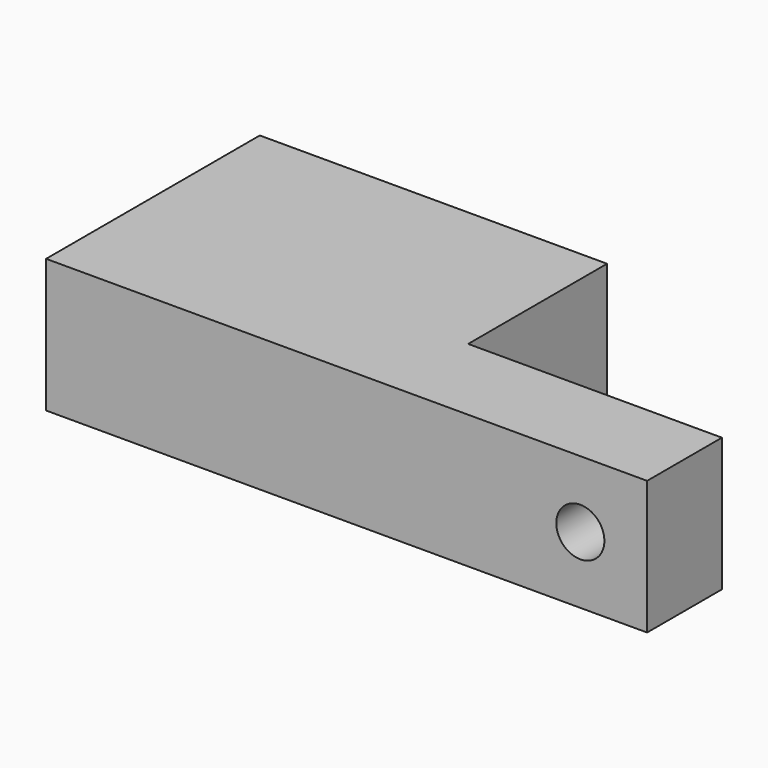
from build123d import *

# Parameters (mm, degrees)
CYLINDER040_R          = 4.2
CYLINDER040_DEPTH      = 200
CYLINDER037_R          = 1.8
CYLINDER037_DEPTH      = 21
CYLINDER037_ROLL_ANGLE = 90
BOX009_W               = 19
BOX009_H               = 14
BOX009_DEPTH           = 10
BOX008_W               = 45
BOX008_H               = 20
BOX008_DEPTH           = 10


with BuildPart() as cilindro037:
    # Cylinder040 → Cylinder040 (new body)
    with BuildSketch(Plane(origin=(57, -40, -29), x_dir=(1, 0, 0), z_dir=(0, 0, 1))):
        Circle(CYLINDER040_R)
    extrude(amount=CYLINDER040_DEPTH)


with BuildPart() as cilindro034:
    # Cylinder037 → Cylinder037 (new body)
    with BuildSketch(Plane.XY):
        Circle(CYLINDER037_R)
    extrude(amount=CYLINDER037_DEPTH)


with BuildPart() as cilindro034_1:
    # Cylinder037 roll: moved
    add(cilindro034.part.rotate(Axis((0, 0, 0), (1, 0, 0)), CYLINDER037_ROLL_ANGLE))


with BuildPart() as cilindro034_2:
    # Cylinder037 placement: moved
    add(cilindro034_1.part.moved(Location((88, -32, 22))))


with BuildPart() as cubo009:
    # Box009 → Box009 (new body)
    with BuildSketch(Plane(origin=(74, -43, 17), x_dir=(1, 0, 0), z_dir=(0, 0, 1))):
        with Locations((9.5, 7)):
            Rectangle(BOX009_W, BOX009_H)
    extrude(amount=BOX009_DEPTH)


with BuildPart() as parte_superior:
    # Box008 → Box008 (new body)
    with BuildSketch(Plane(origin=(48, -50, 17), x_dir=(1, 0, 0), z_dir=(0, 0, 1))):
        with Locations((22.5, 10)):
            Rectangle(BOX008_W, BOX008_H)
    extrude(amount=BOX008_DEPTH)

    # Cut037: cut Cubo009
    add(cubo009.part, mode=Mode.SUBTRACT)

    # Cut038: cut Cilindro034
    add(cilindro034_2.part, mode=Mode.SUBTRACT)


with BuildPart() as parte_superior_1:
    # Cut038 placement: moved
    add(parte_superior.part.moved(Location((0, 0, 146))))

    # Cut039: cut Cilindro037
    add(cilindro037.part, mode=Mode.SUBTRACT)


solid = parte_superior_1.part
